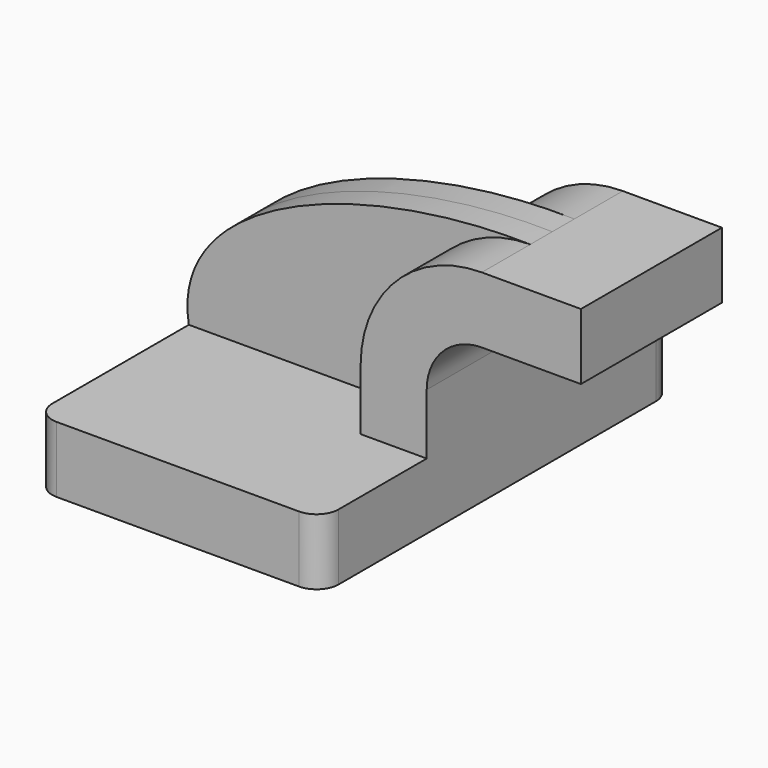
from build123d import *

# Parameters (mm, degrees)
F1_DEPTH = 63.5
F0_W     = 25.4
F0_H     = 19.05
F2_DEPTH = 25.4
F3_DEPTH = 7.9375
F4_R     = 6.35


with BuildPart() as f1:
    # F0 (on Front) → F1 (new body, symmetric)
    with BuildSketch(Plane.XZ):
        Polygon((41.275, -9.525), (41.275, 9.525), (22.225, 9.525), (-41.275, 9.525), (-41.275, -9.525), align=None)
    extrude(amount=F1_DEPTH, both=True)

    # F0 (on Front) → F2 (join, symmetric)
    with BuildSketch(Plane.XZ):
        with BuildLine():
            Line((22.225, 9.525), (41.275, 9.525))
            Line((41.275, 9.525), (41.275, 27.0002))
            ThreePointArc((41.275, 27.0002), (45.92468, 38.22552), (57.15, 42.8752))
            Line((57.15, 42.8752), (60.325, 42.8752))
            Line((60.325, 42.8752), (60.325, 61.9252))
            Line((60.325, 61.9252), (57.15, 61.9252))
            ThreePointArc((57.15, 61.9252), (32.454296, 51.695904), (22.225, 27.0002))
            Line((22.225, 27.0002), (22.225, 9.525))
        make_face()
        with Locations((73.025, 52.4002)):
            Rectangle(F0_W, F0_H)
    extrude(amount=F2_DEPTH, both=True)

    # F0 (on Front) → F3 (join, symmetric)
    with BuildSketch(Plane.XZ):
        with BuildLine():
            Line((-41.275, 9.525), (22.225, 9.525))
            Line((22.225, 9.525), (22.225, 27.0002))
            ThreePointArc((22.225, 27.0002), (32.454296, 51.695904), (57.15, 61.9252))
            add(Edge.make_bspline(
                [(-41.275, 9.525), (-46.898041, 42.469062), (7.599939, 63.057207), (57.15, 61.9252)],
                knots=[0, 0, 0, 0, 111.504536, 111.504536, 111.504536, 111.504536], degree=3))
        make_face()
    extrude(amount=F3_DEPTH, both=True)

    # F4
    f4_edges = [f1.edges().sort_by_distance(p)[0] for p in [
        (41.275, -63.5, 0),
        (-41.275, -63.5, 0),
        (41.275, 63.5, 0),
        (-41.275, 63.5, 0),
    ]]
    fillet(f4_edges, radius=F4_R)


solid = f1.part
